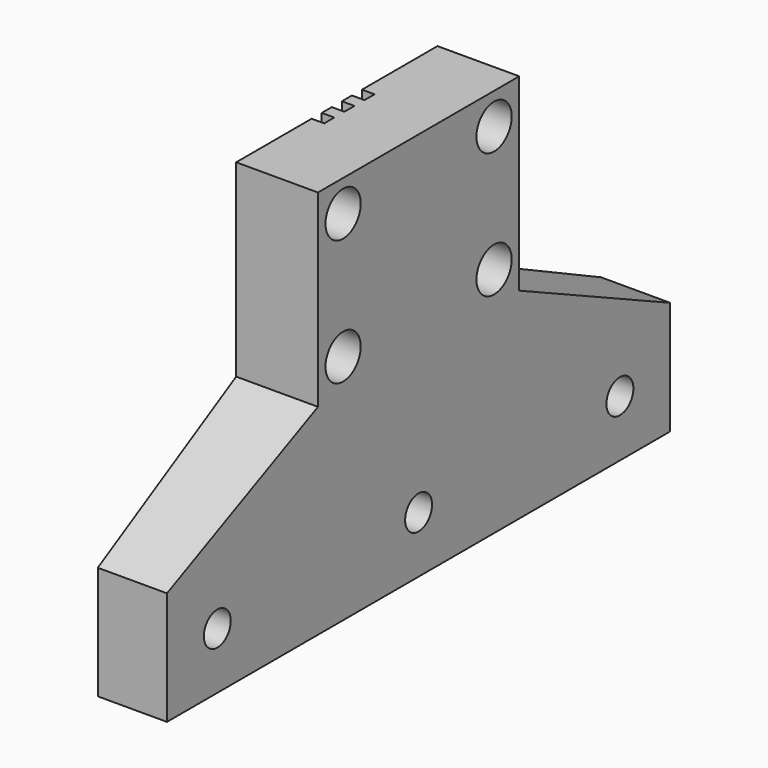
from build123d import *

# Parameters (mm, degrees)
SKETCH047_R          = 1.75
SKETCH047_R_2        = 1.3375
PAD025_DEPTH         = 6.5
POCKET021_DEPTH      = 25.001
POCKET021_DEPTH_BACK = 25.001
SKETCH056_W          = 1
SKETCH056_H          = 22.95
SKETCH056_H_2        = 7
POCKET025_DEPTH      = 1


with BuildPart() as part:
    # Sketch047 → Pad025 (new body)
    with BuildSketch(Plane.YZ):
        Polygon((-10, 30.95), (10, 30.95), (10, 15.95), (25, 9), (25, 0), (-25, 0), (-25, 9), (-10, 15.95), align=None)
        with Locations((-7.5, 28.45)):
            Circle(SKETCH047_R, mode=Mode.SUBTRACT)
        with Locations((7.5, 28.45)):
            Circle(SKETCH047_R, mode=Mode.SUBTRACT)
        with Locations((7.5, 18.45)):
            Circle(SKETCH047_R, mode=Mode.SUBTRACT)
        with Locations((-7.5, 18.45)):
            Circle(SKETCH047_R, mode=Mode.SUBTRACT)
        with Locations((-20, 4.5)):
            Circle(SKETCH047_R_2, mode=Mode.SUBTRACT)
        with Locations((0, 4.5)):
            Circle(SKETCH047_R_2, mode=Mode.SUBTRACT)
        with Locations((20, 4.5)):
            Circle(SKETCH047_R_2, mode=Mode.SUBTRACT)
    extrude(amount=PAD025_DEPTH)

    # Sketch048 → Pocket021 (cut, two sides)
    with BuildSketch(Plane.XZ) as pocket021_sk:
        Polygon((0, 15.95), (0, 0), (1, 0), (1, 9), align=None)
    extrude(amount=-POCKET021_DEPTH, mode=Mode.SUBTRACT)
    extrude(pocket021_sk.sketch, amount=POCKET021_DEPTH_BACK, mode=Mode.SUBTRACT)

    # Sketch056 (on Face4 of Pocket021) → Pocket025 (cut)
    with BuildSketch(Plane(origin=(0, 0, 0), x_dir=(0, 1, 0), z_dir=(-1, 0, 0))):
        with Locations((0, -11.475)):
            Rectangle(SKETCH056_W, SKETCH056_H)
        with Locations((0, -27.45)):
            Rectangle(SKETCH056_W, SKETCH056_H_2)
        with Locations((-2, -11.475)):
            Rectangle(SKETCH056_W, SKETCH056_H)
        with Locations((-2, -27.45)):
            Rectangle(SKETCH056_W, SKETCH056_H_2)
        with Locations((2, -11.475)):
            Rectangle(SKETCH056_W, SKETCH056_H)
        with Locations((2, -27.45)):
            Rectangle(SKETCH056_W, SKETCH056_H_2)
    extrude(amount=-POCKET025_DEPTH, mode=Mode.SUBTRACT)


with BuildPart() as part_1:
    # Body011 placement: moved
    add(part.part.moved(Location((-141.5, -20, 60.5))))


solid = part_1.part
